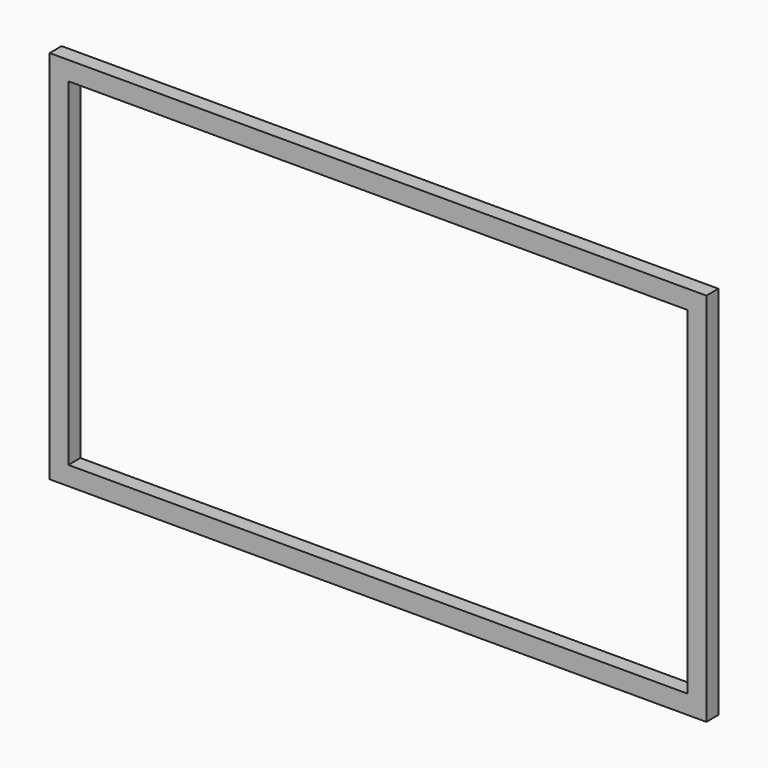
from build123d import *

# Parameters (mm, degrees)
F0_W     = 1750
F0_H     = 1000
F0_W_2   = 1650
F0_H_2   = 900
F1_DEPTH = 40
F2_SCALE = 0.05


with BuildPart() as f1:
    # F0 (on Front) → F1 (new body)
    with BuildSketch(Plane.XZ):
        with Locations((875, -500)):
            Rectangle(F0_W, F0_H)
        with Locations((875, -500)):
            Rectangle(F0_W_2, F0_H_2, mode=Mode.SUBTRACT)
    extrude(amount=F1_DEPTH)


with BuildPart() as f1_1:
    # F2: moved
    add(f1.part.scale(F2_SCALE))


solid = f1_1.part
